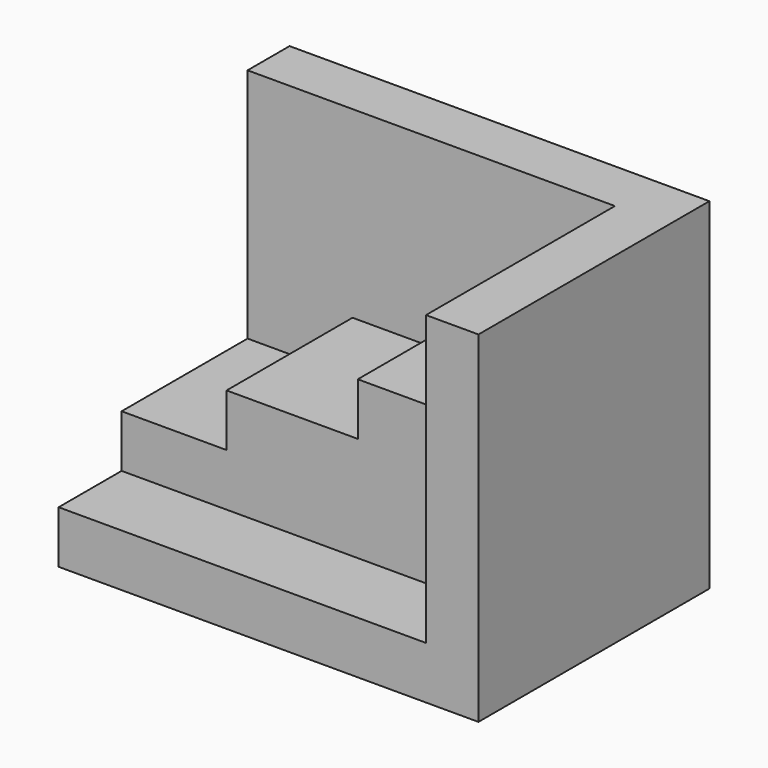
from build123d import *

# Parameters (mm, degrees)
F0_W     = 80
F0_H     = 65
F1_DEPTH = 55
F2_W     = 70
F2_H     = 45
F3_DEPTH = 10
F4_W     = 70
F4_H     = 15
F5_DEPTH = 45
F7_DEPTH = 30


with BuildPart() as f1:
    # F0 (on Front) → F1 (new body)
    with BuildSketch(Plane.XZ):
        Rectangle(F0_W, F0_H)
    extrude(amount=F1_DEPTH)

    # F2 (on face) → F3 (cut)
    with BuildSketch(Plane.XY.offset(32.5)):
        with Locations((-5, -32.5)):
            Rectangle(F2_W, F2_H)
    extrude(amount=-F3_DEPTH, mode=Mode.SUBTRACT)

    # F4 (on face) → F5 (cut)
    with BuildSketch(Plane.XY.offset(22.5)):
        with Locations((-5, -47.5)):
            Rectangle(F4_W, F4_H)
    extrude(amount=-F5_DEPTH, mode=Mode.SUBTRACT)

    # F6 (on face) → F7 (cut)
    with BuildSketch(Plane.XZ.offset(40)):
        Polygon((-40, 22.5), (-40, -12.5), (-20, -12.5), (-20, -2.5), (5, -2.5), (5, 7.5), (30, 7.5), (30, 22.5), align=None)
    extrude(amount=-F7_DEPTH, mode=Mode.SUBTRACT)


solid = f1.part
